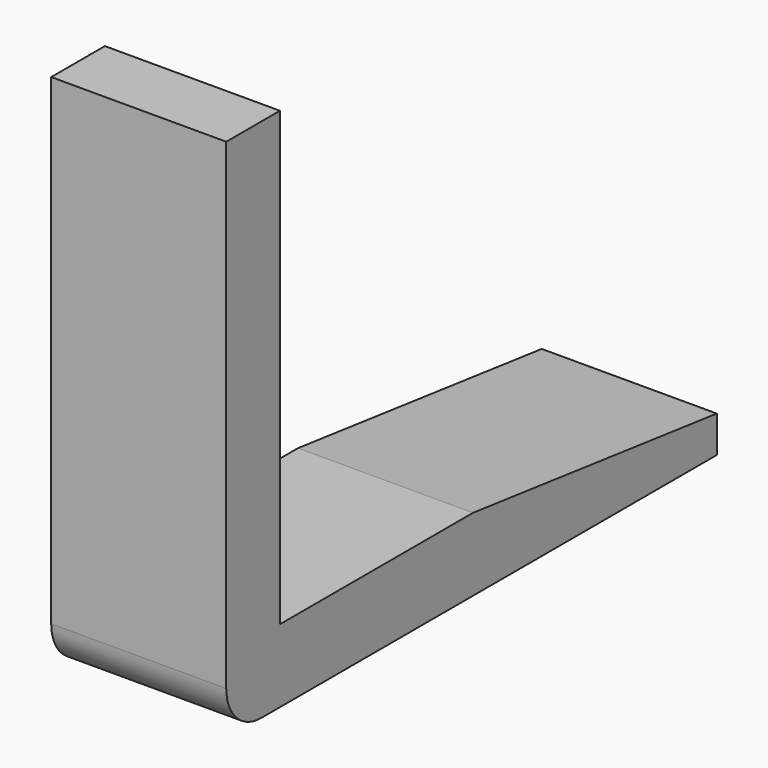
from build123d import *

# Parameters (mm, degrees)
F1_DEPTH = 25.4


with BuildPart() as f1:
    # F0 (on Right) → F1 (new body)
    with BuildSketch(Plane.YZ):
        with BuildLine():
            Line((9.737576, 0), (0, 0))
            Line((0, 0), (0, -69.85))
            ThreePointArc((0, -69.85), (1.859872, -74.340128), (6.35, -76.2))
            Line((6.35, -76.2), (88.985146, -76.2))
            Line((88.985146, -76.2), (88.985146, -70.901472))
            Line((88.985146, -70.901472), (44.77061, -65.602944))
            Line((44.77061, -65.602944), (9.737576, -65.602944))
            Line((9.737576, -65.602944), (9.737576, 0))
        make_face()
    extrude(amount=F1_DEPTH)


solid = f1.part
